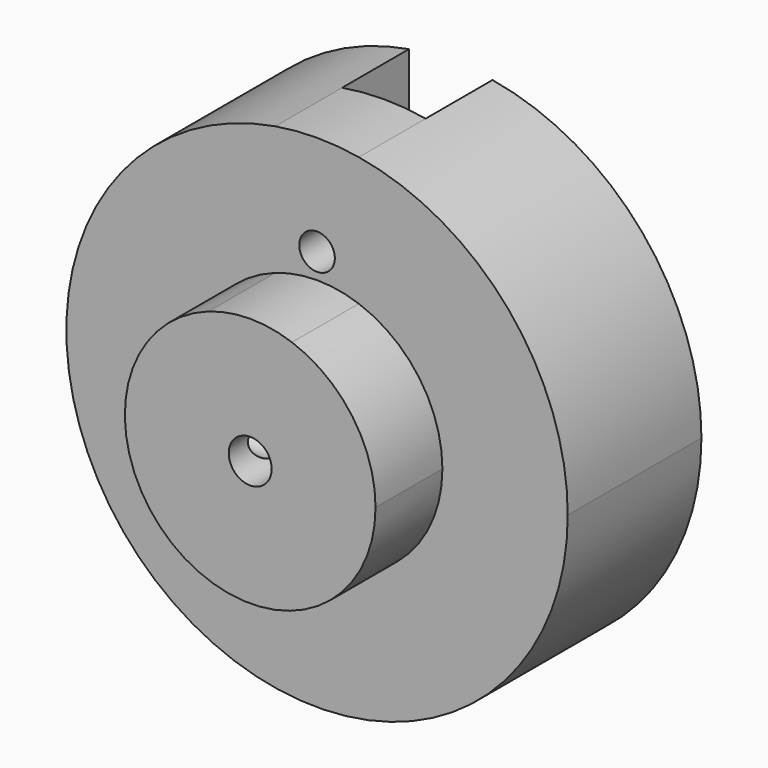
from build123d import *

# Parameters (mm, degrees)
F1_DEPTH = 12.7
F0_R     = 1.63195
F2_DEPTH = 19.05
F3_R     = 1.35255
F4_DEPTH = 25.4
F5_DEPTH = 6.35
F6_R     = 1.35255
F7_DEPTH = 25.4
F8_R     = 1.35255
F9_DEPTH = 12.701


with BuildPart() as f1:
    # F0 (on Front) → F1 (new body)
    with BuildSketch(Plane.XZ):
        with BuildLine():
            ThreePointArc((-3.175, 18.7835533113), (-12.2967221242, -14.5496778315), (19.05, 0))
            ThreePointArc((19.05, 0), (14.5496778315, 12.2967221242), (3.175, 18.7835533113))
            Line((3.175, 18.7835533113), (3.175, 8.9802561211))
            ThreePointArc((3.175, 8.9802561211), (7.7771299333, 5.499261314), (9.525, 0))
            ThreePointArc((9.525, 0), (-5.499261314, -7.7771299333), (-3.175, 8.9802561211))
            Line((-3.175, 8.9802561211), (-3.175, 18.7835533113))
        make_face()
        with BuildLine():
            Line((3.175, 8.9802561211), (3.175, 18.7835533113))
            ThreePointArc((3.175, 18.7835533113), (0, 19.05), (-3.175, 18.7835533113))
            Line((-3.175, 18.7835533113), (-3.175, 8.9802561211))
            ThreePointArc((-3.175, 8.9802561211), (0, 9.525), (3.175, 8.9802561211))
        make_face()
    extrude(amount=F1_DEPTH)

    # F0 (on Front) → F2 (join)
    with BuildSketch(Plane.XZ):
        with BuildLine():
            Line((3.175, -6.35), (3.175, 8.9802561211))
            ThreePointArc((3.175, 8.9802561211), (0, 9.525), (-3.175, 8.9802561211))
            Line((-3.175, 8.9802561211), (-3.175, -6.35))
            Line((-3.175, -6.35), (3.175, -6.35))
        make_face()
        Circle(F0_R, mode=Mode.SUBTRACT)
        with BuildLine():
            ThreePointArc((9.525, 0), (7.7771299333, 5.499261314), (3.175, 8.9802561211))
            Line((3.175, 8.9802561211), (3.175, -6.35))
            Line((3.175, -6.35), (-3.175, -6.35))
            Line((-3.175, -6.35), (-3.175, 8.9802561211))
            ThreePointArc((-3.175, 8.9802561211), (-5.499261314, -7.7771299333), (9.525, 0))
        make_face()
        with BuildLine():
            Line((3.175, -6.35), (3.175, 8.9802561211))
            ThreePointArc((3.175, 8.9802561211), (0, 9.525), (-3.175, 8.9802561211))
            Line((-3.175, 8.9802561211), (-3.175, -6.35))
            Line((-3.175, -6.35), (3.175, -6.35))
        make_face()
        Circle(F0_R, mode=Mode.SUBTRACT)
    extrude(amount=F2_DEPTH)

    # F3 (on Right) → F4 (cut)
    with BuildSketch(Plane.YZ):
        with Locations((-15.875, 0)):
            Circle(F3_R)
    extrude(amount=-F4_DEPTH, mode=Mode.SUBTRACT)

    # F0 (on Front) → F5 (cut)
    with BuildSketch(Plane.XZ):
        with BuildLine():
            ThreePointArc((-3.175, 18.7835533113), (0, 19.05), (3.175, 18.7835533113))
            Line((3.175, 18.7835533113), (3.175, 19.7523720562))
            Line((3.175, 19.7523720562), (-3.175, 19.7523720562))
            Line((-3.175, 19.7523720562), (-3.175, 18.7835533113))
        make_face()
        with BuildLine():
            Line((3.175, 8.9802561211), (3.175, 18.7835533113))
            ThreePointArc((3.175, 18.7835533113), (0, 19.05), (-3.175, 18.7835533113))
            Line((-3.175, 18.7835533113), (-3.175, 8.9802561211))
            ThreePointArc((-3.175, 8.9802561211), (0, 9.525), (3.175, 8.9802561211))
        make_face()
        with BuildLine():
            Line((3.175, -6.35), (3.175, 8.9802561211))
            ThreePointArc((3.175, 8.9802561211), (0, 9.525), (-3.175, 8.9802561211))
            Line((-3.175, 8.9802561211), (-3.175, -6.35))
            Line((-3.175, -6.35), (3.175, -6.35))
        make_face()
        Circle(F0_R, mode=Mode.SUBTRACT)
    extrude(amount=F5_DEPTH, mode=Mode.SUBTRACT)

    # F6 (on face) → F7 (cut)
    with BuildSketch(Plane(origin=(0, -6.35, 0), x_dir=(-1, 0, 0), z_dir=(0, 1, 0))):
        with Locations((0, 11.43)):
            Circle(F6_R)
    extrude(amount=-F7_DEPTH, mode=Mode.SUBTRACT)

    # F8 (on face) → F9 (cut, through all)
    with BuildSketch(Plane.XY.offset(-6.35)):
        with Locations((0, -3.175)):
            Circle(F8_R)
    extrude(amount=-F9_DEPTH, mode=Mode.SUBTRACT)


solid = f1.part
